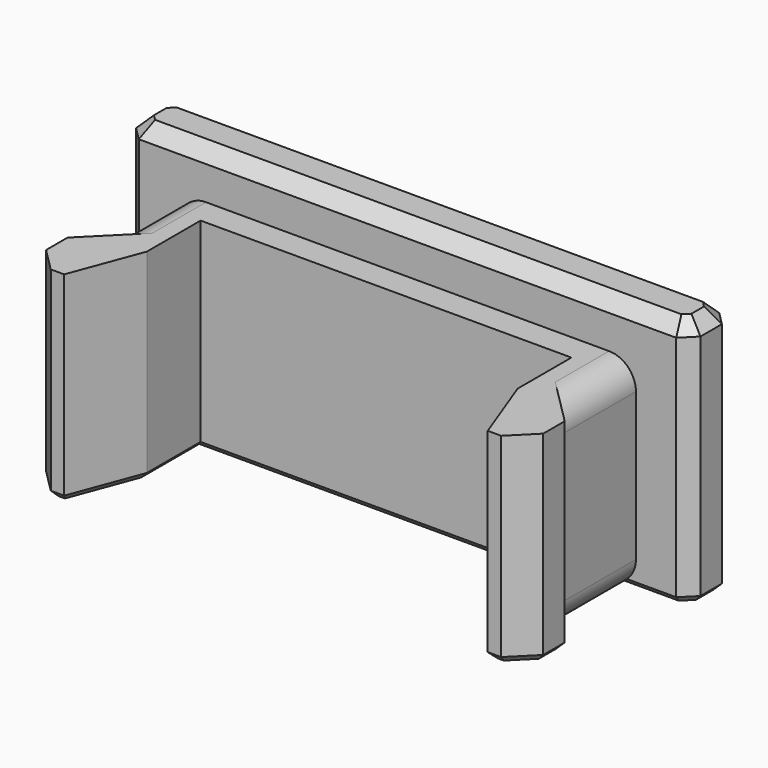
from build123d import *

# Parameters (mm, degrees)
F1_DEPTH = 15
F3_DEPTH = 3.5
F4_SIZE  = 1
F5_R     = 2
F6_SIZE  = 0.5


with BuildPart() as f1:
    # F0 (on Top) → F1 (new body)
    with BuildSketch(Plane.XY):
        Polygon((-21, 1), (-20, 0), (-17.5, 0), (-17, 0), (-17, -7), (-17.5, -7.5), (-17.5, -10), (-18.5, -10), (-18.5, -10.5), (-16.761138632, -12.238861368), (-15.761138632, -12.238861368), (-13.8, -7), (-13.8, -2), (0, -2), (13.8, -2), (13.8, -7), (15.761138632, -12.238861368), (16.761138632, -12.238861368), (18.5, -10.5), (18.5, -10), (17.5, -10), (17.5, -7.5), (17, -7), (17, 0), (17.5, 0), (20, 0), (21, 1), (21, 3), (20, 4), (0, 4), (-20, 4), (-21, 3), align=None)
        Polygon((-17.5, -10), (-17.5, -7.5), (-18.5, -8.5), (-18.5, -10), align=None)
        Polygon((18.5, -8.5), (17.5, -7.5), (17.5, -10), (18.5, -10), align=None)
    extrude(amount=F1_DEPTH)

    # F2 (on face) → F3 (join)
    with BuildSketch(Plane.XY.offset(15)):
        Polygon((-20, 0), (-17, 0), (17, 0), (20, 0), (21, 1), (21, 3), (20, 4), (-20, 4), (-21, 3), (-21, 1), align=None)
    extrude(amount=F3_DEPTH)

    # F4
    f4_edges = [f1.edges().sort_by_distance(p)[0] for p in [
        (0, 0, 18.5),
        (20.5, 0.5, 18.5),
        (21, 2, 18.5),
        (20.5, 3.5, 18.5),
        (0, 4, 18.5),
        (-20.5, 3.5, 18.5),
        (-21, 2, 18.5),
        (-20.5, 0.5, 18.5),
    ]]
    chamfer(f4_edges, length=F4_SIZE)

    # F5
    f5_edges = [f1.edges().sort_by_distance(p)[0] for p in [
        (-17, -3.5, 0),
        (-17, -3.5, 15),
        (17, -3.5, 0),
        (17, -3.5, 15),
    ]]
    fillet(f5_edges, radius=F5_R)

    # F6
    f6_edges = [f1.edges().sort_by_distance(p)[0] for p in [
        (-16, 0, 0),
        (-18.5, 0, 0),
        (-15, -2.5, 0),
        (-20.5, 0.5, 0),
        (-16, -6, 0),
        (-21, 2, 0),
        (-17.75, -7.75, 0),
        (-20.5, 3.5, 0),
        (-18.5, -9.5, 0),
        (0, 4, 0),
        (-17.630569, -11.369431, 0),
        (20.5, 3.5, 0),
        (-16.261139, -12.238861, 0),
        (21, 2, 0),
        (-14.780569, -9.619431, 0),
        (20.5, 0.5, 0),
        (-13.8, -4.5, 0),
        (18.5, 0, 0),
        (0, -2, 0),
        (16, 0, 0),
        (13.8, -4.5, 0),
        (15, -2.5, 0),
        (14.780569, -9.619431, 0),
        (16, -6, 0),
        (16.261139, -12.238861, 0),
        (17.75, -7.75, 0),
        (17.630569, -11.369431, 0),
        (18.5, -9.5, 0),
    ]]
    chamfer(f6_edges, length=F6_SIZE)


solid = f1.part
